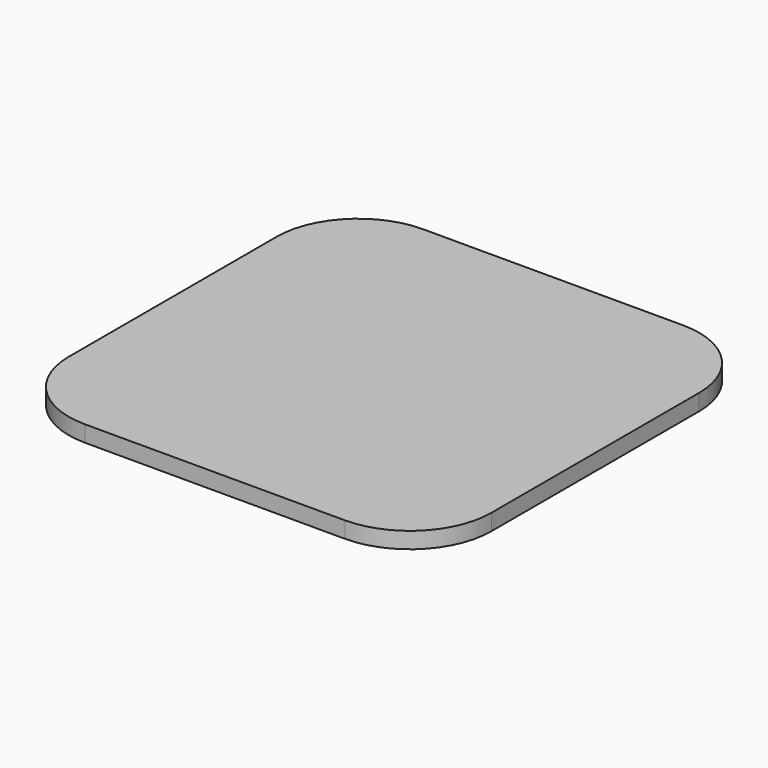
from build123d import *

# Parameters (mm, degrees)
F0_W     = 25.98
F0_H     = 25.98
F1_DEPTH = 1
F2_R     = 5
F3_W     = 21.04
F3_H     = 21.04
F4_DEPTH = 1.5
F5_R     = 5


with BuildPart() as f1:
    # F0 (on Top) → F1 (new body)
    with BuildSketch(Plane.XY):
        Rectangle(F0_W, F0_H)
    extrude(amount=F1_DEPTH)

    # F2
    f2_edges = [f1.edges().sort_by_distance(p)[0] for p in [
        (-12.99, -12.99, 0.5),
        (12.99, -12.99, 0.5),
        (12.99, 12.99, 0.5),
        (-12.99, 12.99, 0.5),
    ]]
    fillet(f2_edges, radius=F2_R)

    # F3 (on face) → F4 (join)
    with BuildSketch(Plane(origin=(0, 0, 0), x_dir=(1, 0, 0), z_dir=(0, 0, -1))):
        Rectangle(F3_W, F3_H)
    extrude(amount=F4_DEPTH)

    # F5
    f5_edges = [f1.edges().sort_by_distance(p)[0] for p in [
        (10.52, -10.52, -0.75),
        (-10.52, -10.52, -0.75),
        (10.52, 10.52, -0.75),
        (-10.52, 10.52, -0.75),
    ]]
    fillet(f5_edges, radius=F5_R)


solid = f1.part
